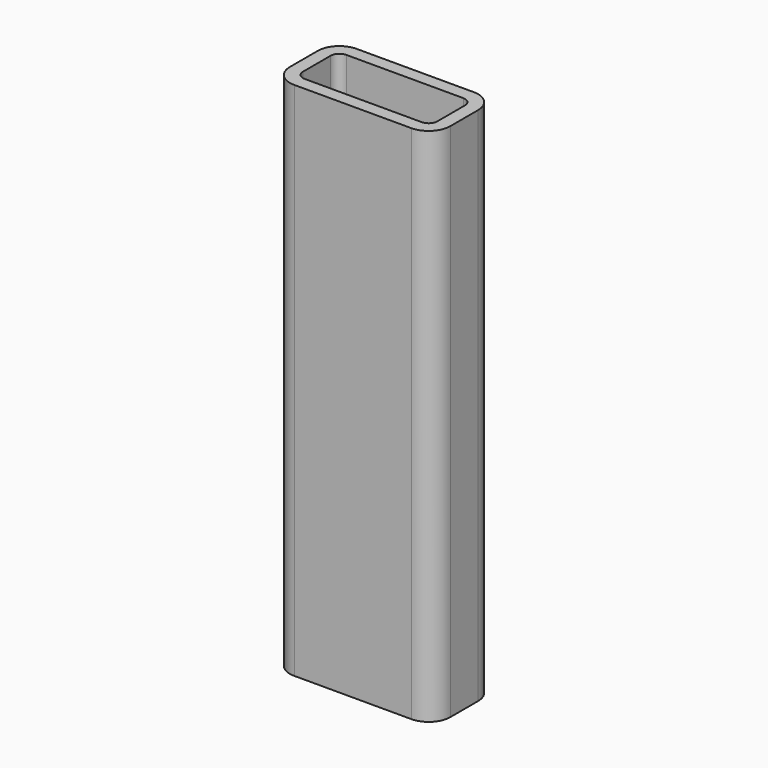
from build123d import *

# Parameters (mm, degrees)
F1_DEPTH = 60
F3_DEPTH = 60.001


with BuildPart() as f1:
    # F0 (on Top) → F1 (new body)
    with BuildSketch(Plane.XY):
        with BuildLine():
            Line((6.75, 4.5), (-6.75, 4.5))
            ThreePointArc((-6.75, 4.5), (-8.517767, 3.767767), (-9.25, 2))
            Line((-9.25, 2), (-9.25, -2))
            ThreePointArc((-9.25, -2), (-8.517767, -3.767767), (-6.75, -4.5))
            Line((-6.75, -4.5), (6.75, -4.5))
            ThreePointArc((6.75, -4.5), (8.517767, -3.767767), (9.25, -2))
            Line((9.25, -2), (9.25, 2))
            ThreePointArc((9.25, 2), (8.517767, 3.767767), (6.75, 4.5))
        make_face()
    extrude(amount=F1_DEPTH)

    # F2 (on face) → F3 (cut, through all)
    with BuildSketch(Plane(origin=(0, 0, 0), x_dir=(1, 0, 0), z_dir=(0, 0, -1))):
        with BuildLine():
            Line((6.75, 3), (-6.75, 3))
            ThreePointArc((-6.75, 3), (-7.457107, 2.707107), (-7.75, 2))
            Line((-7.75, 2), (-7.75, -2))
            ThreePointArc((-7.75, -2), (-7.457107, -2.707107), (-6.75, -3))
            Line((-6.75, -3), (6.75, -3))
            ThreePointArc((6.75, -3), (7.457107, -2.707107), (7.75, -2))
            Line((7.75, -2), (7.75, 2))
            ThreePointArc((7.75, 2), (7.457107, 2.707107), (6.75, 3))
        make_face()
    extrude(amount=-F3_DEPTH, mode=Mode.SUBTRACT)


solid = f1.part
